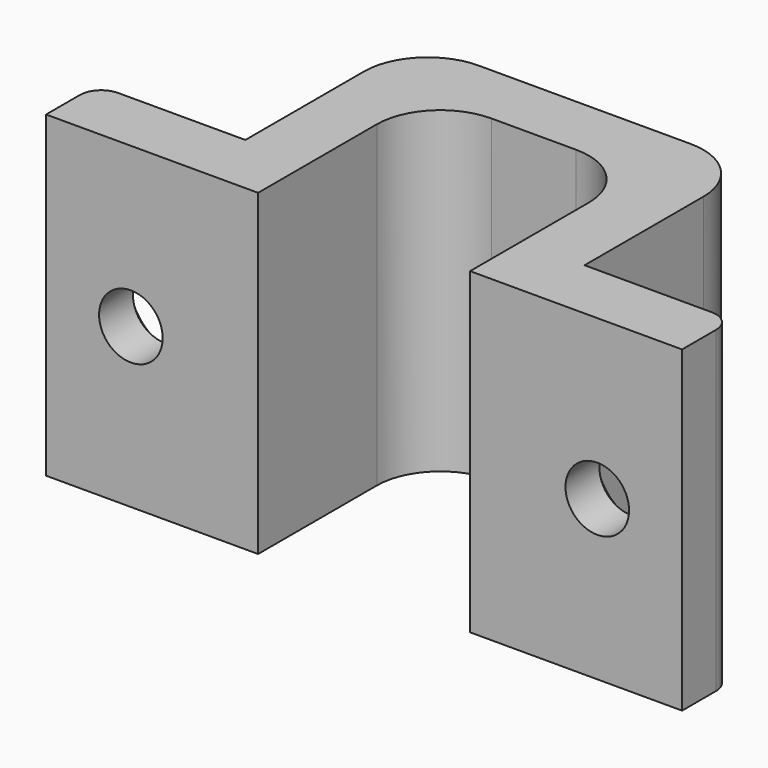
from build123d import *

# Parameters (mm, degrees)
F1_DEPTH       = 15
F4_D           = 3
F4_DEPTH       = 3
F4_CSINK_D     = 5
F4_CSINK_ANGLE = 90
F4_TIP         = 0.9012909285


with BuildPart() as f1:
    # F0 (on Top) → F1 (new body)
    with BuildSketch(Plane.XY):
        with BuildLine():
            Line((5, 7), (5, 0))
            Line((5, 0), (15, 0))
            Line((15, 0), (15, 2))
            ThreePointArc((15, 2), (14.7071067812, 2.7071067812), (14, 3))
            Line((14, 3), (8, 3))
            Line((8, 3), (8, 10))
            ThreePointArc((8, 10), (7.1213203436, 12.1213203436), (5, 13))
            Line((5, 13), (0, 13))
            Line((0, 13), (0, 10))
            Line((0, 10), (2, 10))
            ThreePointArc((2, 10), (4.1213203436, 9.1213203436), (5, 7))
        make_face()
        with BuildLine():
            Line((-2, 10), (0, 10))
            Line((0, 10), (0, 13))
            Line((0, 13), (-5, 13))
            ThreePointArc((-5, 13), (-7.1213203436, 12.1213203436), (-8, 10))
            Line((-8, 10), (-8, 3))
            Line((-8, 3), (-14, 3))
            ThreePointArc((-14, 3), (-14.7071067812, 2.7071067812), (-15, 2))
            Line((-15, 2), (-15, 0))
            Line((-15, 0), (-5, 0))
            Line((-5, 0), (-5, 7))
            ThreePointArc((-5, 7), (-4.1213203436, 9.1213203436), (-2, 10))
        make_face()
    extrude(amount=F1_DEPTH)

    # F4
    with Locations(Plane(origin=(0, 3, 0), x_dir=(1, 0, 0), z_dir=(0, 1, 0))):
        with Locations((11, -7.5), (-11, -7.5)):
            CounterSinkHole(F4_D / 2, F4_CSINK_D / 2, depth=F4_DEPTH, counter_sink_angle=F4_CSINK_ANGLE)
            with Locations((0, 0, -(F4_DEPTH + F4_TIP / 2))):  # 118° drill point
                Cone(0, F4_D / 2, F4_TIP, mode=Mode.SUBTRACT)


solid = f1.part
